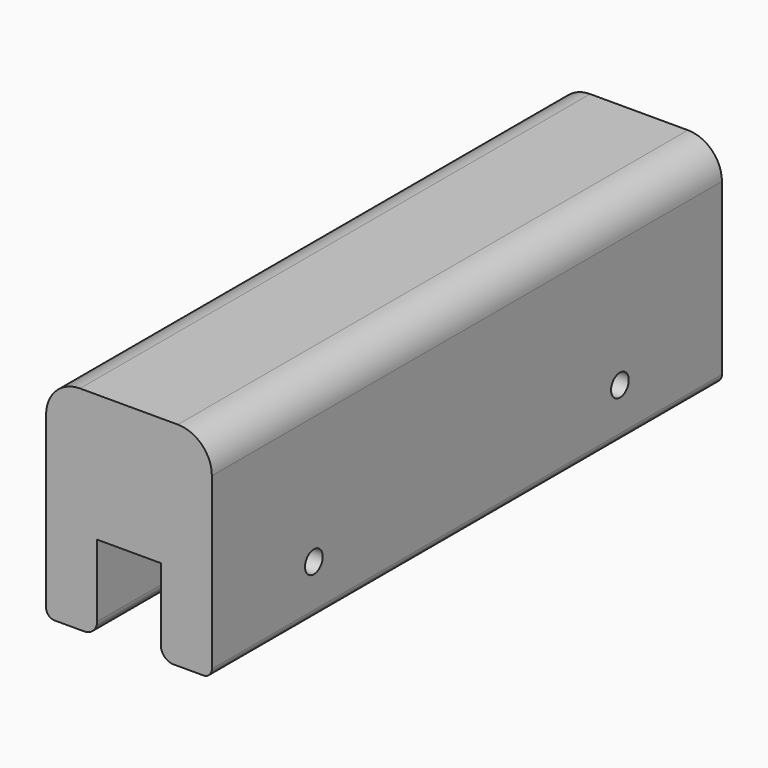
from build123d import *

# Parameters (mm, degrees)
F1_DEPTH = 150
F2_R     = 3
F3_R     = 8
F4_R     = 2
F5_R     = 2.6
F6_DEPTH = 39


with BuildPart() as f1:
    # F0 (on Front) → F1 (new body)
    with BuildSketch(Plane.XZ):
        Polygon((-20.242574, 50), (-20.242574, 0), (-8.242574, 0), (-8.242574, 20), (6.757426, 20), (6.757426, 0), (18.757426, 0), (18.757426, 50), align=None)
    extrude(amount=F1_DEPTH)

    # F2
    f2_edges = [f1.edges().sort_by_distance(p)[0] for p in [
        (-8.242574, -75, 0),
        (6.757426, -75, 0),
    ]]
    fillet(f2_edges, radius=F2_R)

    # F3
    f3_edges = [f1.edges().sort_by_distance(p)[0] for p in [
        (-20.242574, -75, 50),
        (18.757426, -75, 50),
    ]]
    fillet(f3_edges, radius=F3_R)

    # F4
    f4_edges = [f1.edges().sort_by_distance(p)[0] for p in [
        (18.757426, -75, 0),
        (-20.242574, -75, 0),
    ]]
    fillet(f4_edges, radius=F4_R)

    # F5 (on face) → F6 (cut, through all)
    with BuildSketch(Plane(origin=(-20.242574, 0, 0), x_dir=(0, -1, 0), z_dir=(-1, 0, 0))):
        with Locations((30, 12)):
            Circle(F5_R)
        with Locations((120, 12)):
            Circle(F5_R)
    extrude(amount=-F6_DEPTH, mode=Mode.SUBTRACT)


solid = f1.part
